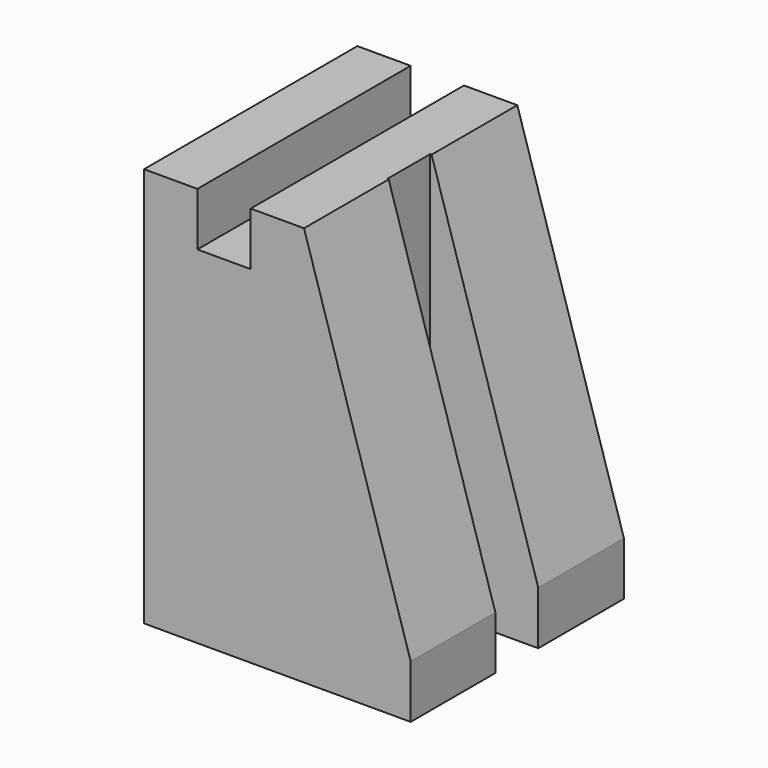
from build123d import *

# Parameters (mm, degrees)
F1_DEPTH = 100
F2_W     = 40.5296184123
F2_H     = 20.1131775975
F3_DEPTH = 100
F4_DEPTH = 100


with BuildPart() as f1:
    # F0 (on Front) → F1 (new body)
    with BuildSketch(Plane.XZ):
        Polygon((0, 150), (0, 0), (100, 0), (100, 20), (60, 150), (40, 150), (40, 130), (20, 130), (20, 150), align=None)
    extrude(amount=F1_DEPTH)

    # F2 (on face) → F3 (cut)
    with BuildSketch(Plane(origin=(0, 0, 0), x_dir=(1, 0, 0), z_dir=(0, 0, -1))):
        with Locations((79.7351907939, 50.2432435751)):
            Rectangle(F2_W, F2_H)
    extrude(amount=-F3_DEPTH, mode=Mode.SUBTRACT)

    # F4 (cut): a face of the model
    f4_faces = [f1.faces().sort_by_distance(p)[0] for p in [
        (67.4274984862, -50.2432435751, 100),
    ]]
    extrude(f4_faces, amount=-F4_DEPTH, mode=Mode.SUBTRACT)


solid = f1.part
